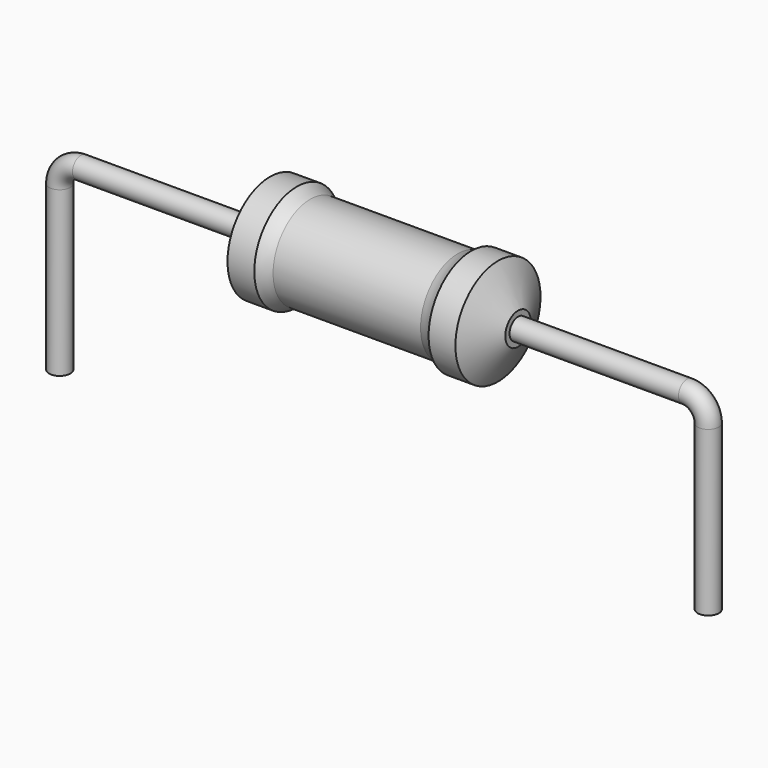
from build123d import *

# Parameters (mm, degrees)
SKETCH_R = 0.25


with BuildPart() as revolution:
    # Sketch002 → Revolution (revolve)
    with BuildSketch(Plane.XZ):
        with BuildLine():
            Line((4.9425, 2.6), (5.5725, 2.6))
            ThreePointArc((5.5725, 2.6), (5.723482, 2.508215), (5.8875, 2.4425))
            Line((5.8875, 2.4425), (9.3525, 2.4425))
            ThreePointArc((9.3525, 2.4425), (9.516518, 2.508215), (9.6675, 2.6))
            Line((9.6675, 2.6), (10.2975, 2.6))
            ThreePointArc((10.77, 1.725), (10.534573, 2.162944), (10.2975, 2.6))
            Line((10.77, 1.35), (10.77, 1.725))
            Line((4.47, 1.35), (10.77, 1.35))
            Line((4.47, 1.35), (4.47, 1.725))
            ThreePointArc((4.9425, 2.6), (4.705427, 2.162944), (4.47, 1.725))
        make_face()
    revolve(axis=Axis((4.47, 0, 1.35), (1, 0, 0)))


with BuildPart() as sweep_body:
    # Sweep: sweep along a path in Sketch001
    with BuildLine(Plane.XZ) as sweep_path:
        Line((0, -3), (0, 0.85))
        ThreePointArc((0, 0.85), (0.14645, 1.203557), (0.50001, 1.35))
        Line((0.50001, 1.35), (14.74, 1.35))
        ThreePointArc((14.74, 1.35), (15.093553, 1.203553), (15.24, 0.85))
        Line((15.24, 0.85), (15.24, -3))
    # Sketch → Sweep (sweep)
    with BuildSketch(Plane.XY.offset(-2)):
        Circle(SKETCH_R)
    sweep(path=sweep_path.line)


solid = Compound([revolution.part, sweep_body.part])
